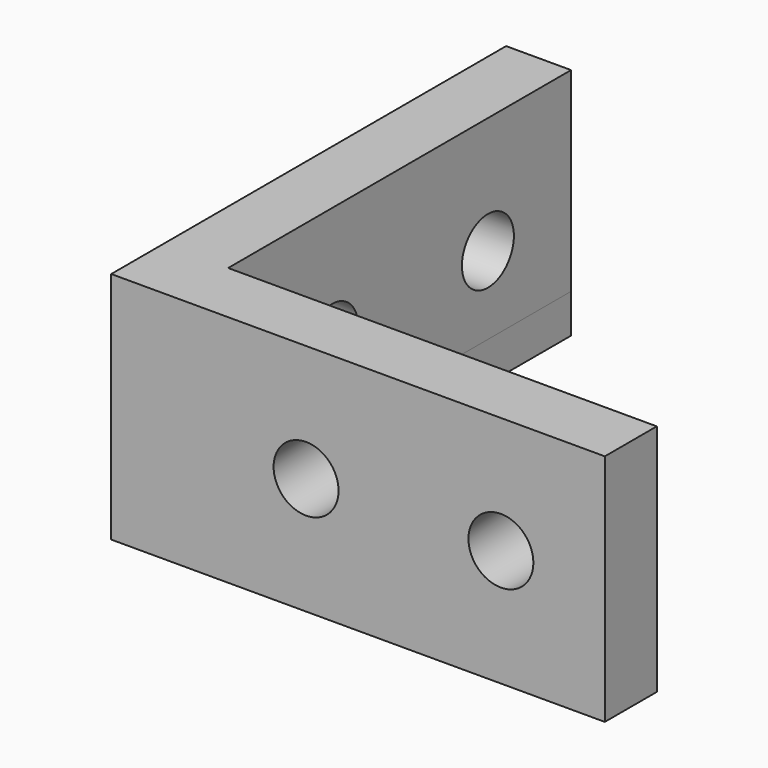
from build123d import *

# Parameters (mm, degrees)
PAD_DEPTH            = 9
SKETCH001_W          = 37.346859
SKETCH001_H          = 35.838272
POCKET_DEPTH         = 6
POCKET_DEPTH_BACK    = -100
SKETCH002_R          = 2.5
POCKET001_DEPTH      = 38.001
SKETCH003_R          = 2.5
POCKET002_DEPTH      = 38.001
SKETCH004_W          = 20
SKETCH004_H          = 20
POCKET003_DEPTH      = 9.001
POCKET003_DEPTH_BACK = -9.001


with BuildPart() as part:
    # Sketch → Pad (new body, symmetric)
    with BuildSketch(Plane.XY):
        Polygon((0, 0), (0, 38), (5, 38), (38, 5), (38, 0), align=None)
    extrude(amount=PAD_DEPTH, both=True)

    # Sketch001 → Pocket (cut, two sides)
    with BuildSketch(Plane.XY) as pocket_sk:
        with Locations((23.673429, 22.919136)):
            Rectangle(SKETCH001_W, SKETCH001_H)
    extrude(amount=-POCKET_DEPTH, mode=Mode.SUBTRACT)
    extrude(pocket_sk.sketch, amount=-POCKET_DEPTH_BACK, mode=Mode.SUBTRACT)

    # Sketch002 (on Face2 of Pocket) → Pocket001 (cut, through all)
    with BuildSketch(Plane.XZ):
        with Locations((15, 0)):
            Circle(SKETCH002_R)
        with Locations((30, 0)):
            Circle(SKETCH002_R)
    extrude(amount=-POCKET001_DEPTH, mode=Mode.SUBTRACT)

    # Sketch003 (on Face1 of Pocket001) → Pocket002 (cut, through all)
    with BuildSketch(Plane(origin=(0, 0, 0), x_dir=(0, -1, 0), z_dir=(-1, 0, 0))):
        with Locations((-30, 0)):
            Circle(SKETCH003_R)
        with Locations((-15, 0)):
            Circle(SKETCH003_R)
    extrude(amount=-POCKET002_DEPTH, mode=Mode.SUBTRACT)

    # Sketch004 → Pocket003 (cut, two sides)
    with BuildSketch(Plane.XY) as pocket003_sk:
        with Locations((15, 30)):
            Rectangle(SKETCH004_W, SKETCH004_H)
    extrude(amount=-POCKET003_DEPTH, mode=Mode.SUBTRACT)
    extrude(pocket003_sk.sketch, amount=-POCKET003_DEPTH_BACK, mode=Mode.SUBTRACT)


solid = part.part
